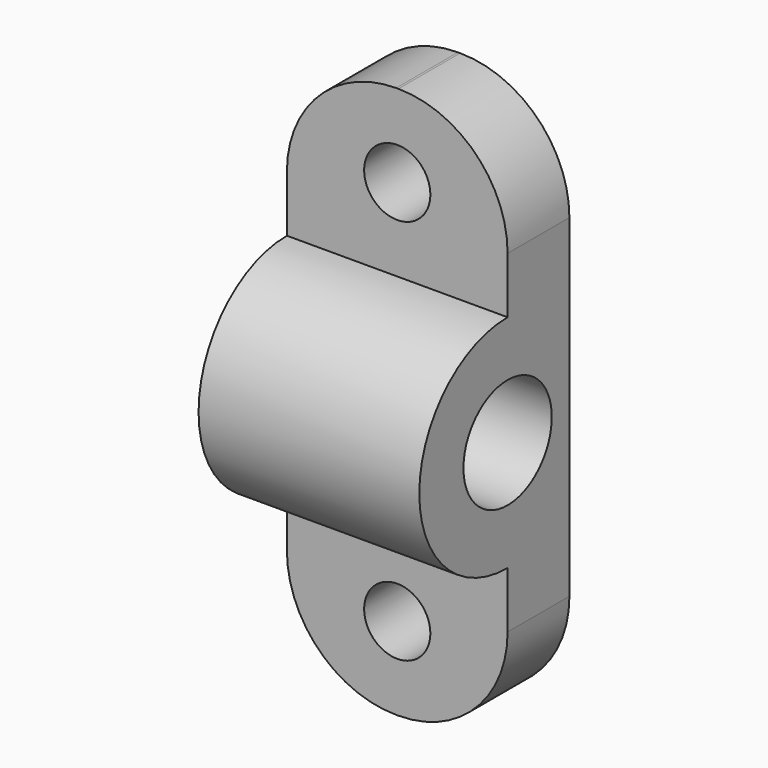
from build123d import *

# Parameters (mm, degrees)
PAD030_DEPTH             = 20
SKETCH021_R              = 5
POCKET001006_DEPTH       = 20.001
FILLET_R                 = 9.9
SKETCH024_R              = 3
POCKET002_DEPTH          = 7.001
CLONE076_ROLL_ANGLE      = 90
CLONE076_PLACEMENT_ANGLE = -90


with BuildPart() as part:
    # Sketch020 → Pad030 (new body)
    with BuildSketch(Plane.XY):
        with BuildLine():
            Line((18, 0), (25, 0))
            Line((25, 0), (25, 15))
            ThreePointArc((25, 15), (35, 25), (25, 35))
            Line((25, 35), (25, 50))
            Line((25, 50), (18, 50))
            Line((18, 50), (18, 0))
        make_face()
    extrude(amount=PAD030_DEPTH)

    # Sketch021 → Pocket001006 (cut, through all)
    with BuildSketch(Plane(origin=(0, 0, 0), x_dir=(1, 0, 0), z_dir=(0, 0, -1))):
        with Locations((25, -25)):
            Circle(SKETCH021_R)
    extrude(amount=-POCKET001006_DEPTH, mode=Mode.SUBTRACT)

    # Fillet
    fillet_edges = [part.edges().sort_by_distance(p)[0] for p in [
        (21.5, 0, 0),
        (21.5, 50, 0),
        (21.5, 50, 20),
        (21.5, 0, 20),
    ]]
    fillet(fillet_edges, radius=FILLET_R)

    # Sketch024 → Pocket002 (cut, through all)
    with BuildSketch(Plane.YZ.offset(25)):
        with Locations((7.5, 10)):
            Circle(SKETCH024_R)
        with Locations((42.5, 10)):
            Circle(SKETCH024_R)
    extrude(amount=-POCKET002_DEPTH, mode=Mode.SUBTRACT)


with BuildPart() as part_1:
    # Clone076 roll: moved
    add(part.part.rotate(Axis((0, 0, 0), (1, 0, 0)), CLONE076_ROLL_ANGLE))


with BuildPart() as part_2:
    # Clone076 placement: moved
    add(part_1.part.moved(Location((120.75, 1500, 0))).rotate(Axis((120.75, 1500, 0), (0, 0, 1)), CLONE076_PLACEMENT_ANGLE))


with BuildPart() as part_3:
    # Clone078 placement: moved
    add(part_2.part.moved(Location((347.25, 0, 0))))


solid = part_3.part
